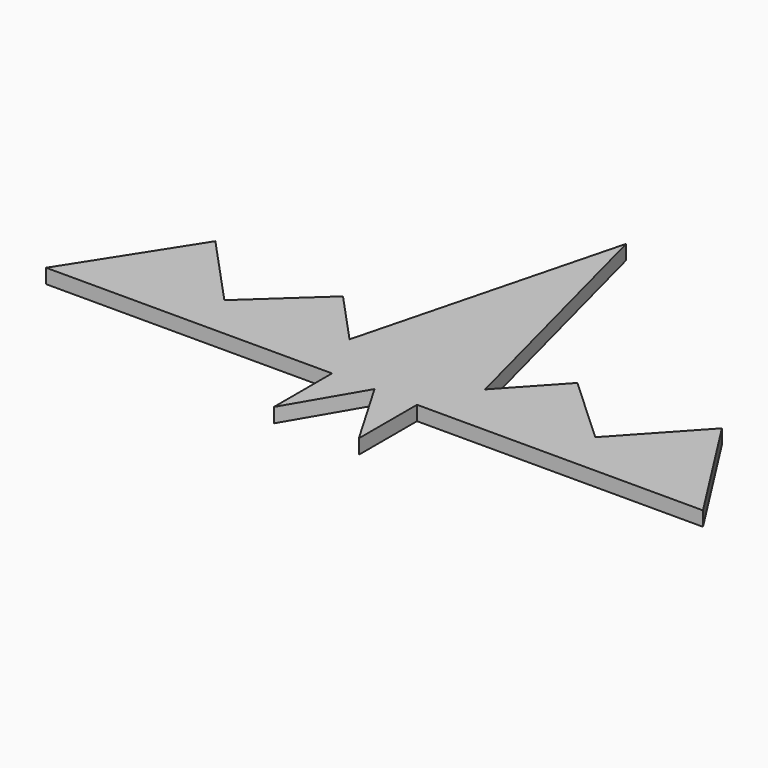
from build123d import *

# Parameters (mm, degrees)
F1_DEPTH = 3.67449


with BuildPart() as f1:
    # F0 (on Top) → F1 (new body)
    with BuildSketch(Plane.XY):
        Polygon((-10.7878, -64.311769), (0, -45.848083), (10.7878, -64.311769), (10.7878, -45.848083), (83.397806, -45.848083), (64.311743, -15.97425), (47.092803, -34.645397), (29.759468, -18.660218), (17.206866, -32.271478), (0, 34.022957), (-17.206866, -32.271478), (-29.759468, -18.660218), (-47.092803, -34.645397), (-64.311743, -15.97425), (-83.397806, -45.848083), (-10.7878, -45.848083), align=None)
    extrude(amount=F1_DEPTH)


solid = f1.part
